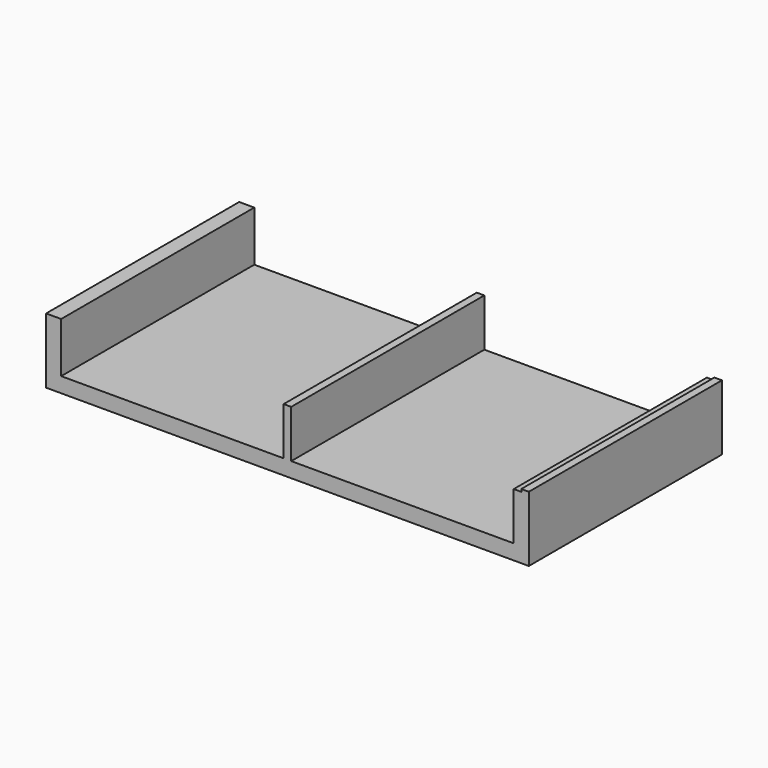
from build123d import *

# Parameters (mm, degrees)
F0_W     = 19.05
F0_H     = 120.65
F1_DEPTH = 609.6


with BuildPart() as f1:
    # F0 (on Front) → F1 (new body)
    with BuildSketch(Plane.XZ):
        Polygon((-609.6, 165.1), (-609.6, 0), (609.6, 0), (609.6, 165.1), (590.55, 165.1), (590.55, 158.75), (571.5, 158.75), (571.5, 38.1), (9.525, 38.1), (-9.525, 38.1), (-571.5, 38.1), (-571.5, 165.1), align=None)
        with Locations((0, 98.425)):
            Rectangle(F0_W, F0_H)
    extrude(amount=F1_DEPTH)


solid = f1.part
